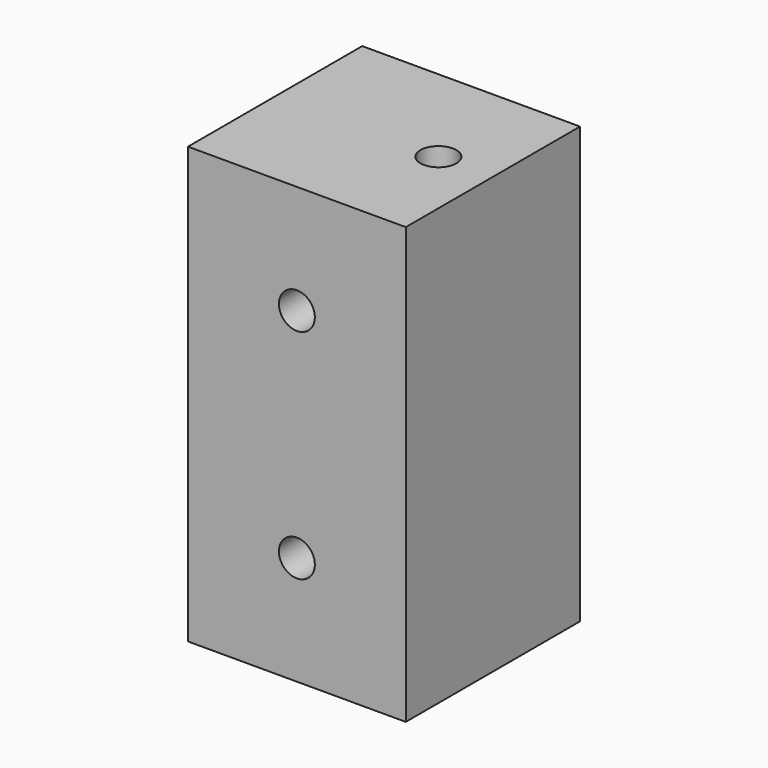
from build123d import *

# Parameters (mm, degrees)
SKETCH_W       = 20
SKETCH_H       = 20
PAD_DEPTH      = 40
SKETCH001_R    = 1.65
HOLE_DEPTH     = 8
HOLE_TIPS_R    = 1.65
SKETCH002_R    = 1.65
HOLE001_DEPTH  = 8
HOLE001_TIPS_R = 1.65


with BuildPart() as part:
    # Sketch → Pad (new body)
    with BuildSketch(Plane.XY):
        with Locations((-75, 10)):
            Rectangle(SKETCH_W, SKETCH_H)
    extrude(amount=PAD_DEPTH)

    # Sketch001 (on Face1 of Pad) → Hole (cut)
    with BuildSketch(Plane.XZ):
        with Locations((-75, 30)):
            Circle(SKETCH001_R)
        with Locations((-75, 10)):
            Circle(SKETCH001_R)
    extrude(amount=-HOLE_DEPTH, mode=Mode.SUBTRACT)

    # Hole tips → Hole tip 1 section 0
    with BuildSketch(Plane.XZ.offset(-8), mode=Mode.PRIVATE) as hole_tip_1_s0:
        with Locations((-75, 30)):
            Circle(HOLE_TIPS_R)
    loft([hole_tip_1_s0.sketch, Vertex(-75, 8.99142, 30)], mode=Mode.SUBTRACT)

    # Hole tips → Hole tip 2 section 0
    with BuildSketch(Plane.XZ.offset(-8), mode=Mode.PRIVATE) as hole_tip_2_s0:
        with Locations((-75, 10)):
            Circle(HOLE_TIPS_R)
    loft([hole_tip_2_s0.sketch, Vertex(-75, 8.99142, 10)], mode=Mode.SUBTRACT)

    # Sketch002 (on Face4 of Hole) → Hole001 (cut)
    with BuildSketch(Plane.XY.offset(40)):
        with Locations((-70, 10)):
            Circle(SKETCH002_R)
    extrude(amount=-HOLE001_DEPTH, mode=Mode.SUBTRACT)

    # Hole001 tips → Hole001 tip 1 section 0
    with BuildSketch(Plane.XY.offset(32), mode=Mode.PRIVATE) as hole001_tip_1_s0:
        with Locations((-70, 10)):
            Circle(HOLE001_TIPS_R)
    loft([hole001_tip_1_s0.sketch, Vertex(-70, 10, 31.00858)], mode=Mode.SUBTRACT)


solid = part.part
